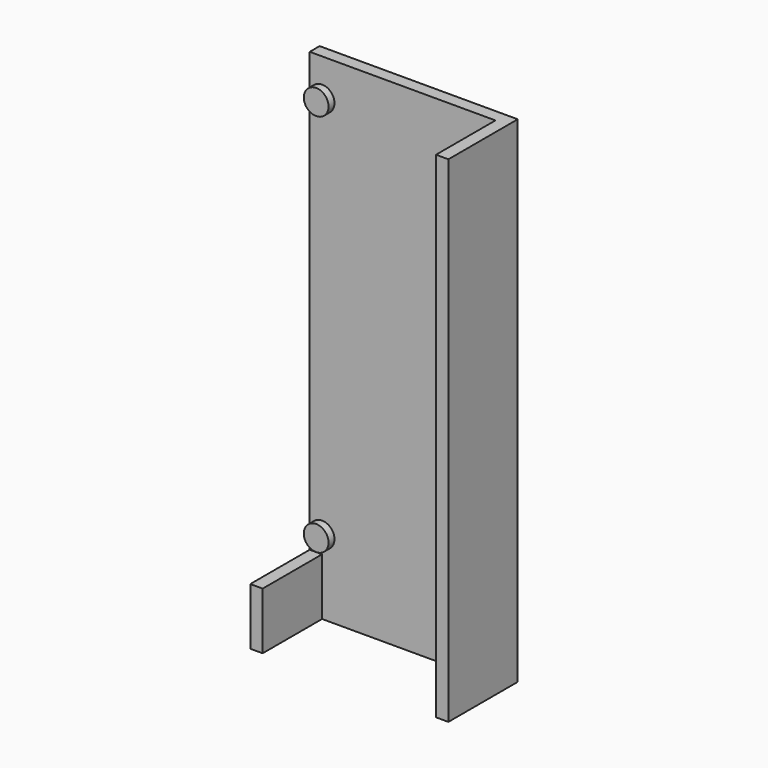
from build123d import *

# Parameters (mm, degrees)
SKETCH_W      = 80
SKETCH_H      = 200
PAD_DEPTH     = 5
SKETCH001_R   = 5
PAD001_DEPTH  = 3
SKETCH002_W   = 5
SKETCH002_H   = 200
SKETCH002_H_2 = 23
PAD002_DEPTH  = 30


with BuildPart() as part:
    # Sketch → Pad (new body)
    with BuildSketch(Plane.XZ):
        Rectangle(SKETCH_W, SKETCH_H)
    extrude(amount=PAD_DEPTH)

    # Sketch001 (on Face6 of Pad) → Pad001 (join)
    with BuildSketch(Plane.XZ.offset(5)):
        with Locations((-35, 85)):
            Circle(SKETCH001_R)
        with Locations((27, 85)):
            Circle(SKETCH001_R)
        with Locations((-35, -70)):
            Circle(SKETCH001_R)
        with Locations((27, -70)):
            Circle(SKETCH001_R)
    extrude(amount=PAD001_DEPTH)

    # Sketch002 (on Face5 of Pad001) → Pad002 (join)
    with BuildSketch(Plane.XZ.offset(5)):
        with Locations((37.5, 0)):
            Rectangle(SKETCH002_W, SKETCH002_H)
        with Locations((-37.5, -88.5)):
            Rectangle(SKETCH002_W, SKETCH002_H_2)
    extrude(amount=PAD002_DEPTH)


solid = part.part
